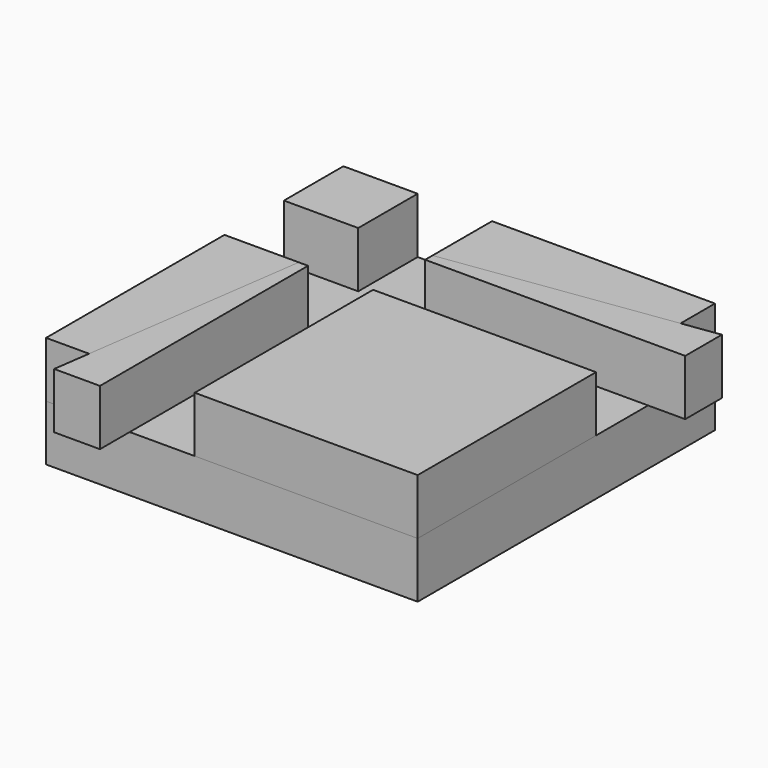
from build123d import *

# Parameters (mm, degrees)
F0_W     = 127
F0_H     = 127
F1_DEPTH = 19.05
F2_W     = 25.4
F2_H     = 25.4
F2_W_2   = 76.2
F2_H_2   = 76.2
F3_DEPTH = 19.05
F5_DEPTH = 19.05


with BuildPart() as f1:
    # F0 (on Top) → F1 (new body)
    with BuildSketch(Plane.XY):
        with Locations((63.5, -63.5)):
            Rectangle(F0_W, F0_H)
    extrude(amount=F1_DEPTH)


with BuildPart() as f3:
    # F2 (on face) → F3 (new body)
    with BuildSketch(Plane.XY.offset(19.05)):
        Polygon((127, 0), (50.8, 0), (50.8, -25.4), (127, -14.690788), align=None)
        Polygon((25.4, -50.8), (0, -50.8), (0, -127), (14.690788, -127), align=None)
        with Locations((12.7, -12.7)):
            Rectangle(F2_W, F2_H)
        with Locations((88.9, -88.9)):
            Rectangle(F2_W_2, F2_H_2)
    extrude(amount=F3_DEPTH)


with BuildPart() as f5:
    # F4 (on face) → F5 (new body)
    with BuildSketch(Plane.XY.offset(19.05)):
        Polygon((127, -14.690788), (50.8, -25.4), (50.8, -28.575), (127, -28.575), (127, -25.4), align=None)
        Polygon((28.575, -50.8), (25.4, -50.8), (14.690788, -127), (25.4, -127), (28.575, -127), align=None)
        Polygon((25.4, -127), (14.690788, -127), (12.90592, -139.7), (28.575, -139.7), (28.575, -127), align=None)
        Polygon((139.7, -12.90592), (127, -14.690788), (127, -25.4), (127, -28.575), (139.7, -28.575), align=None)
    extrude(amount=F5_DEPTH)


solid = Compound([f1.part, f3.part, f5.part])
